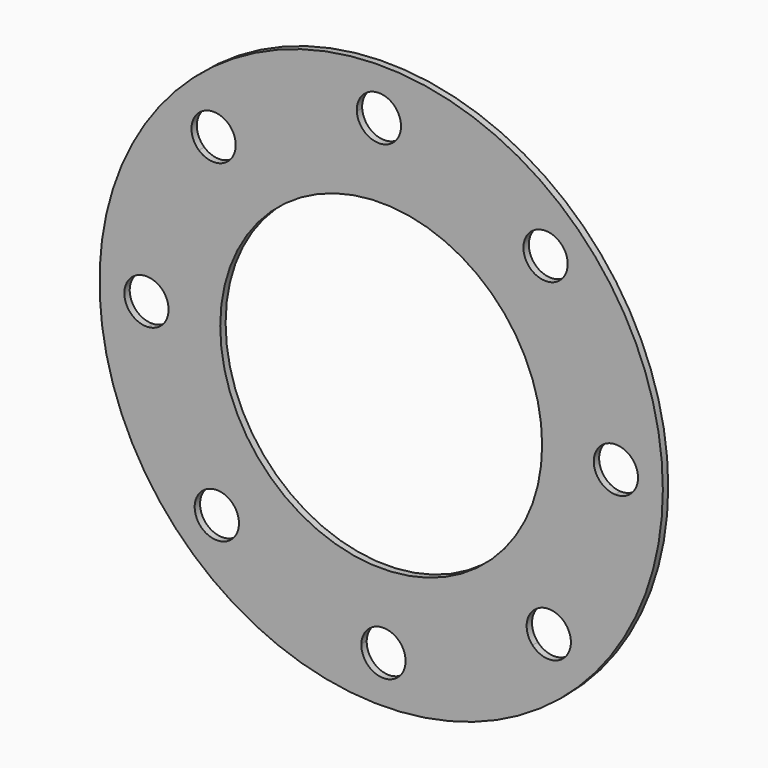
from build123d import *

# Parameters (mm, degrees)
F0_R     = 42
F0_R_2   = 24
F1_DEPTH = 1


with BuildPart() as f1:
    # F0 (on Front) → F1 (new body)
    with BuildSketch(Plane.XZ):
        with Locations((-2.9635038227, 0.4932200536)):
            Circle(F0_R)
        with BuildLine():
            ThreePointArc((23.788972617, 23.0610069266), (29.2411666686, 14.199393792), (31.8473983055, 4.1265508975))
            ThreePointArc((31.8473983055, 4.1265508975), (34.3010642257, 3.2306934737), (35.3348577063, 0.8318795978))
            ThreePointArc((35.3348577063, 0.8318795978), (34.3241690286, -1.5448941966), (31.9111888156, -2.4658023161))
            ThreePointArc((31.9111888156, -2.4658023161), (29.5003654621, -12.5871924421), (24.2206740094, -21.5526520225))
            ThreePointArc((24.2206740094, -21.5526520225), (25.0352315525, -22.6659149008), (25.3235434051, -24.0148902537))
            ThreePointArc((25.3235434051, -24.0148902537), (23.2290393257, -27.0868244303), (19.6042830503, -26.2592563861))
            ThreePointArc((19.6042830503, -26.2592563861), (10.7426699157, -31.7114504377), (0.6698270212, -34.3176820746))
            ThreePointArc((0.6698270212, -34.3176820746), (0.6738232774, -34.4113739144), (0.6751557215, -34.5051414754))
            ThreePointArc((0.6751557215, -34.5051414754), (-2.6866895856, -37.804561903), (-5.9225261924, -34.3814725847))
            ThreePointArc((-5.9225261924, -34.3814725847), (-16.0439163184, -31.9706492312), (-25.0093758988, -26.6909577785))
            ThreePointArc((-25.0093758988, -26.6909577785), (-29.7823788162, -26.8497487699), (-29.7159802624, -22.0745668194))
            ThreePointArc((-29.7159802624, -22.0745668194), (-35.168174314, -13.2129536848), (-37.7744059509, -3.1401107903))
            ThreePointArc((-37.7744059509, -3.1401107903), (-41.2617108673, 0.1226297524), (-37.838196461, 3.4522424234))
            ThreePointArc((-37.838196461, 3.4522424234), (-35.4273731075, 13.5736325493), (-30.1476816547, 22.5390921297))
            ThreePointArc((-30.1476816547, 22.5390921297), (-30.3064726462, 27.3120950471), (-25.5312906957, 27.2456964933))
            ThreePointArc((-25.5312906957, 27.2456964933), (-16.6696775611, 32.6978905449), (-6.5968346666, 35.3041221818))
            ThreePointArc((-6.5968346666, 35.3041221818), (-3.3959309279, 38.7902491385), (-0.0021633669, 35.4915815826))
            ThreePointArc((-0.0021633669, 35.4915815826), (-0.0027429393, 35.4297362755), (-0.0044814529, 35.3679126919))
            ThreePointArc((-0.0044814529, 35.3679126919), (10.116908673, 32.9570893384), (19.0823682534, 27.6773978857))
            ThreePointArc((19.0823682534, 27.6773978857), (22.7203219768, 28.5637220129), (24.8446064847, 25.4802672814))
            ThreePointArc((24.8446064847, 25.4802672814), (24.5692063125, 24.1604961339), (23.788972617, 23.0610069266))
        make_face(mode=Mode.SUBTRACT)
        with BuildLine():
            ThreePointArc((31.9111888156, -2.4658023161), (28.7350121907, 0.7999488408), (31.8473983055, 4.1265508975))
            ThreePointArc((31.8473983055, 4.1265508975), (29.2411666686, 14.199393792), (23.788972617, 23.0610069266))
            ThreePointArc((23.788972617, 23.0610069266), (19.2338417986, 23.1243456856), (19.0823682534, 27.6773978857))
            ThreePointArc((19.0823682534, 27.6773978857), (10.116908673, 32.9570893384), (-0.0044814529, 35.3679126919))
            ThreePointArc((-0.0044814529, 35.3679126919), (-3.2702326098, 32.191736067), (-6.5968346666, 35.3041221818))
            ThreePointArc((-6.5968346666, 35.3041221818), (-16.6696775611, 32.6978905449), (-25.5312906957, 27.2456964933))
            ThreePointArc((-25.5312906957, 27.2456964933), (-24.8786168738, 26.2068262816), (-24.6505510504, 25.001330361))
            ThreePointArc((-24.6505510504, 25.001330361), (-26.6015756975, 21.9896422136), (-30.1476816547, 22.5390921297))
            ThreePointArc((-30.1476816547, 22.5390921297), (-35.4273731075, 13.5736325493), (-37.838196461, 3.4522424234))
            ThreePointArc((-37.838196461, 3.4522424234), (-35.5850915573, 2.4438718317), (-34.6618653517, 0.1545605094))
            ThreePointArc((-34.6618653517, 0.1545605094), (-35.5630514757, -2.11164601), (-37.7744059509, -3.1401107903))
            ThreePointArc((-37.7744059509, -3.1401107903), (-35.168174314, -13.2129536848), (-29.7159802624, -22.0745668194))
            ThreePointArc((-29.7159802624, -22.0745668194), (-26.1518429826, -21.4692273463), (-24.17161413, -24.4938271741))
            ThreePointArc((-24.17161413, -24.4938271741), (-24.3881593985, -25.6695426662), (-25.0093758988, -26.6909577785))
            ThreePointArc((-25.0093758988, -26.6909577785), (-16.0439163184, -31.9706492312), (-5.9225261924, -34.3814725847))
            ThreePointArc((-5.9225261924, -34.3814725847), (-2.6567750355, -31.2052959598), (0.6698270212, -34.3176820746))
            ThreePointArc((0.6698270212, -34.3176820746), (10.7426699157, -31.7114504377), (19.6042830503, -26.2592563861))
            ThreePointArc((19.6042830503, -26.2592563861), (19.6676218093, -21.7041255676), (24.2206740094, -21.5526520225))
            ThreePointArc((24.2206740094, -21.5526520225), (29.5003654621, -12.5871924421), (31.9111888156, -2.4658023161))
        make_face()
        with Locations((-2.9635038227, 0.4932200536)):
            Circle(F0_R_2, mode=Mode.SUBTRACT)
    extrude(amount=F1_DEPTH)


solid = f1.part
